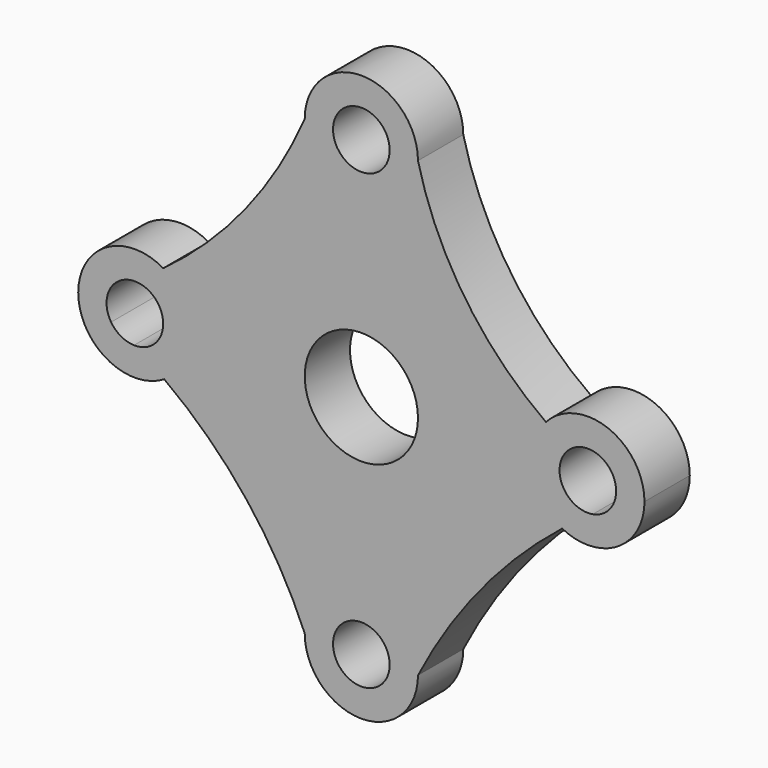
from build123d import *

# Parameters (mm, degrees)
F0_R     = 12.7
F0_R_2   = 6.35
F1_DEPTH = 12.7


with BuildPart() as f1:
    # F0 (on Front) → F1 (new body)
    with BuildSketch(Plane.XZ):
        with BuildLine():
            ThreePointArc((57.15, 0), (56.8766515285, -1.8430426477), (56.0801397791, -3.5274103693))
            ThreePointArc((56.0801397791, -3.5274103693), (54.2694300144, -5.318416623), (51.9006194858, -6.2538897294))
            ThreePointArc((51.9006194858, -6.2538897294), (48.4190755317, -8.7219118509), (45.0276545193, -11.3123838182))
            ThreePointArc((45.0276545193, -11.3123838182), (57.4325414584, -10.8304844676), (63.5, 0))
            ThreePointArc((63.5, 0), (55.3789325136, 11.8458168581), (41.401830388, 8.5419206239))
            ThreePointArc((41.401830388, 8.5419206239), (44.1007900362, 6.7073731537), (46.8785359506, 4.9944589006))
            ThreePointArc((46.8785359506, 4.9944589006), (53.5767970115, 5.7106828275), (57.15, 0))
        make_face()
        with BuildLine():
            ThreePointArc((45.0276545193, -11.3123838182), (48.4190755317, -8.7219118509), (51.9006194858, -6.2538897294))
            ThreePointArc((51.9006194858, -6.2538897294), (45.0016702631, -2.5887974548), (46.8785359506, 4.9944589006))
            ThreePointArc((46.8785359506, 4.9944589006), (44.1007900362, 6.7073731537), (41.401830388, 8.5419206239))
            ThreePointArc((41.401830388, 8.5419206239), (38.3066224237, -2.2815601538), (45.0276545193, -11.3123838182))
        make_face()
        with BuildLine():
            ThreePointArc((12.7, -50.8), (26.7365398063, -29.3146278315), (45.0276545193, -11.3123838182))
            ThreePointArc((45.0276545193, -11.3123838182), (38.3066224237, -2.2815601538), (41.401830388, 8.5419206239))
            ThreePointArc((41.401830388, 8.5419206239), (23.2609348186, 27.0967928269), (12.7, 50.8))
            ThreePointArc((12.7, 50.8), (0, 38.1), (-12.7, 50.8))
            ThreePointArc((-12.7, 50.8), (-25.931080925, 28.7951219923), (-44.4260335163, 10.984650712))
            ThreePointArc((-44.4260335163, 10.984650712), (-39.7945610187, 6.3380054298), (-38.1, 0))
            ThreePointArc((-38.1, 0), (-39.7315409301, -6.2272958672), (-44.2069628059, -10.8545778617))
            ThreePointArc((-44.2069628059, -10.8545778617), (-25.7109575448, -28.6641224761), (-12.7, -50.8))
            ThreePointArc((-12.7, -50.8), (0, -38.1), (12.7, -50.8))
        make_face()
        Circle(F0_R, mode=Mode.SUBTRACT)
        with BuildLine():
            ThreePointArc((-12.7, -50.8), (0, -63.5), (12.7, -50.8))
            ThreePointArc((12.7, -50.8), (0, -38.1), (-12.7, -50.8))
        make_face()
        with Locations((0, -50.8)):
            Circle(F0_R_2, mode=Mode.SUBTRACT)
        with BuildLine():
            ThreePointArc((-12.7, 50.8), (0, 38.1), (12.7, 50.8))
            ThreePointArc((12.7, 50.8), (0, 63.5), (-12.7, 50.8))
        make_face()
        with Locations((0, 50.8)):
            Circle(F0_R_2, mode=Mode.SUBTRACT)
        with BuildLine():
            ThreePointArc((-50.9840484535, -6.3473322086), (-47.5468930567, -8.5278612667), (-44.2069628059, -10.8545778617))
            ThreePointArc((-44.2069628059, -10.8545778617), (-39.7315409301, -6.2272958672), (-38.1, 0))
            ThreePointArc((-38.1, 0), (-39.7945610187, 6.3380054298), (-44.4260335163, 10.984650712))
            ThreePointArc((-44.4260335163, 10.984650712), (-47.8361181166, 8.5819047613), (-51.3454149518, 6.3265332158))
            ThreePointArc((-51.3454149518, 6.3265332158), (-46.5070339475, 4.6789894712), (-44.45, 0))
            ThreePointArc((-44.45, 0), (-46.3754213579, -4.5547342228), (-50.9840484535, -6.3473322086))
        make_face()
        with BuildLine():
            ThreePointArc((-63.5, 0), (-57.0272958672, -11.0684590699), (-44.2069628059, -10.8545778617))
            ThreePointArc((-44.2069628059, -10.8545778617), (-47.5468930567, -8.5278612667), (-50.9840484535, -6.3473322086))
            ThreePointArc((-50.9840484535, -6.3473322086), (-53.9136479336, -5.534229535), (-56.1294624703, -3.4524382366))
            ThreePointArc((-56.1294624703, -3.4524382366), (-59.7774952115, -1.6467247173), (-63.5, 0))
        make_face()
        with BuildLine():
            ThreePointArc((-51.3454149518, 6.3265332158), (-47.8361181166, 8.5819047613), (-44.4260335163, 10.984650712))
            ThreePointArc((-44.4260335163, 10.984650712), (-57.1380054298, 11.0054389813), (-63.5, 0))
            ThreePointArc((-63.5, 0), (-59.7103078766, 1.7435878799), (-55.998291415, 3.6469530247))
            ThreePointArc((-55.998291415, 3.6469530247), (-53.9690027149, 5.5027194907), (-51.3454149518, 6.3265332158))
        make_face()
        with BuildLine():
            ThreePointArc((-55.998291415, 3.6469530247), (-59.7103078766, 1.7435878799), (-63.5, 0))
            ThreePointArc((-63.5, 0), (-59.7774952115, -1.6467247173), (-56.1294624703, -3.4524382366))
            ThreePointArc((-56.1294624703, -3.4524382366), (-57.1489164066, 0.1173049962), (-55.998291415, 3.6469530247))
        make_face()
    extrude(amount=F1_DEPTH)


solid = f1.part
